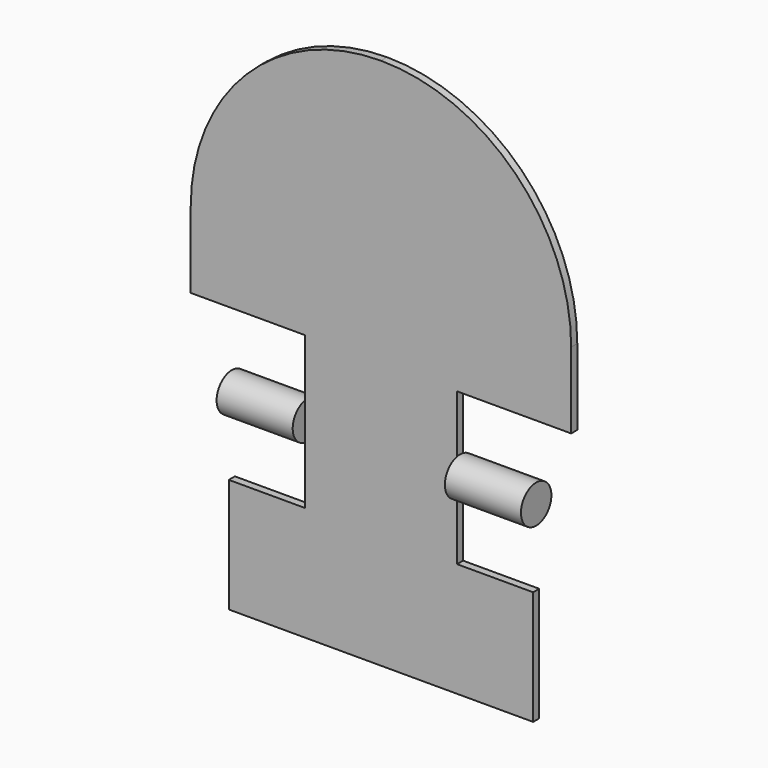
from build123d import *

# Parameters (mm, degrees)
F1_DEPTH = 2
F2_R     = 5
F3_DEPTH = 20


with BuildPart() as f1:
    # F0 (on Front) → F1 (new body)
    with BuildSketch(Plane.XZ):
        with BuildLine():
            Line((-40, -50), (0, -50))
            Line((0, -50), (40, -50))
            Line((40, -50), (40, -20))
            Line((40, -20), (20, -20))
            Line((20, -20), (20, 20))
            Line((20, 20), (50, 20))
            Line((50, 20), (50, 40))
            ThreePointArc((50, 40), (35.355339, 75.355339), (0, 90))
            ThreePointArc((0, 90), (-35.355339, 75.355339), (-50, 40))
            Line((-50, 40), (-50, 20))
            Line((-50, 20), (-20, 20))
            Line((-20, 20), (-20, -20))
            Line((-20, -20), (-40, -20))
            Line((-40, -20), (-40, -50))
        make_face()
    extrude(amount=-F1_DEPTH)


with BuildPart() as f3:
    # F2 (on face) → F3 (new body)
    with BuildSketch(Plane(origin=(-20, 0, 0), x_dir=(0, -1, 0), z_dir=(-1, 0, 0))):
        with Locations((-1, 0)):
            Circle(F2_R)
    extrude(amount=F3_DEPTH)


with BuildPart() as f4_1:
    # F4: instance of F3
    add(f3.part.mirror(Plane.YZ))


solid = Compound([f1.part, f3.part, f4_1.part])
